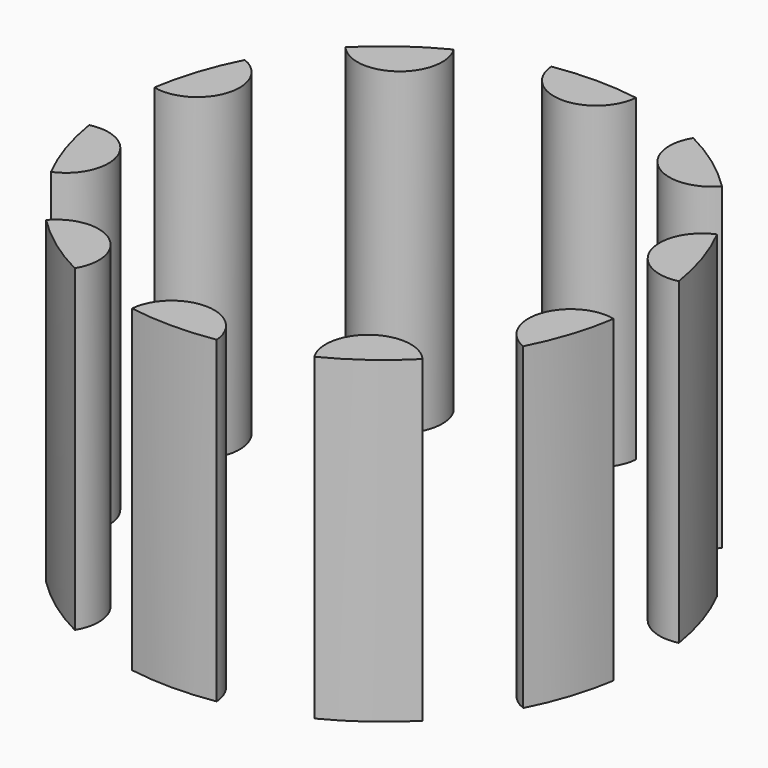
from build123d import *

# Parameters (mm, degrees)
F0_R     = 31.75
F1_DEPTH = 38.1
F2_R     = 5.08
F3_DEPTH = 50.8


with BuildPart() as f1:
    # F0 (on Top) → F1 (new body)
    with BuildSketch(Plane.XY):
        Circle(F0_R)
    extrude(amount=F1_DEPTH)


with BuildPart() as f3:
    # F2 (on Top) → F3 (new body)
    with BuildSketch(Plane.XY):
        with Locations((0, 31.75)):
            Circle(F2_R)
        with Locations((-18.662182, 25.68629)):
            Circle(F2_R)
        with Locations((-30.196044, 9.81129)):
            Circle(F2_R)
        with Locations((-30.196044, -9.81129)):
            Circle(F2_R)
        with Locations((-18.662182, -25.68629)):
            Circle(F2_R)
        with Locations((0, -31.75)):
            Circle(F2_R)
        with Locations((18.662182, -25.68629)):
            Circle(F2_R)
        with Locations((30.196044, -9.81129)):
            Circle(F2_R)
        with Locations((30.196044, 9.81129)):
            Circle(F2_R)
        with Locations((18.662182, 25.68629)):
            Circle(F2_R)
    extrude(amount=F3_DEPTH)


with BuildPart() as f1_1:
    add(f1.part)

    # F4: intersect F3
    add(f3.part, mode=Mode.INTERSECT)

    # F5: intersect F3
    add(f3.part, mode=Mode.INTERSECT)


with BuildPart() as f3_1:
    add(f3.part)

    # F6: intersect F1
    add(f1_1.part, mode=Mode.INTERSECT)

    # F7: intersect F1
    add(f1_1.part, mode=Mode.INTERSECT)


with BuildPart() as f1_2:
    add(f1_1.part)

    # F8: intersect F3
    add(f3_1.part, mode=Mode.INTERSECT)


with BuildPart() as f3_2:
    add(f3_1.part)

    # F9: intersect F1
    add(f1_2.part, mode=Mode.INTERSECT)

    # F10: intersect F1
    add(f1_2.part, mode=Mode.INTERSECT)

    # F11: intersect F1
    add(f1_2.part, mode=Mode.INTERSECT)

    # F12: intersect F1
    add(f1_2.part, mode=Mode.INTERSECT)

    # F13: intersect F1
    add(f1_2.part, mode=Mode.INTERSECT)

    # F14: intersect F1
    add(f1_2.part, mode=Mode.INTERSECT)


solid = f3_2.part
